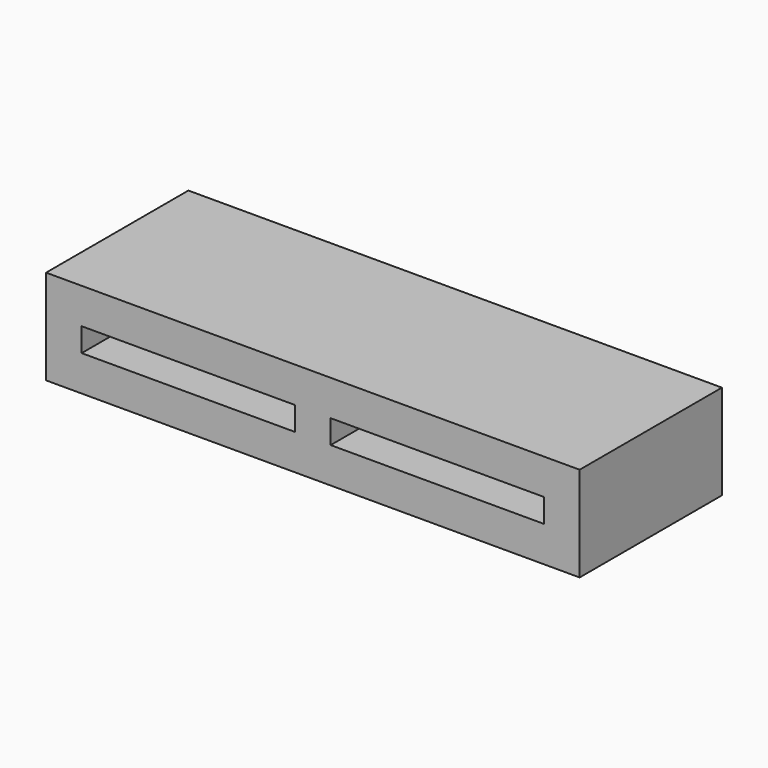
from build123d import *

# Parameters (mm, degrees)
SKETCH_W   = 45
SKETCH_H   = 8
SKETCH_W_2 = 18
SKETCH_H_2 = 2
PAD_DEPTH  = 15


with BuildPart() as part:
    # Sketch → Pad (new body)
    with BuildSketch(Plane.XZ):
        with Locations((22.5, 4)):
            Rectangle(SKETCH_W, SKETCH_H)
        with Locations((12, 4)):
            Rectangle(SKETCH_W_2, SKETCH_H_2, mode=Mode.SUBTRACT)
        with Locations((33, 4)):
            Rectangle(SKETCH_W_2, SKETCH_H_2, mode=Mode.SUBTRACT)
    extrude(amount=PAD_DEPTH)


solid = part.part
